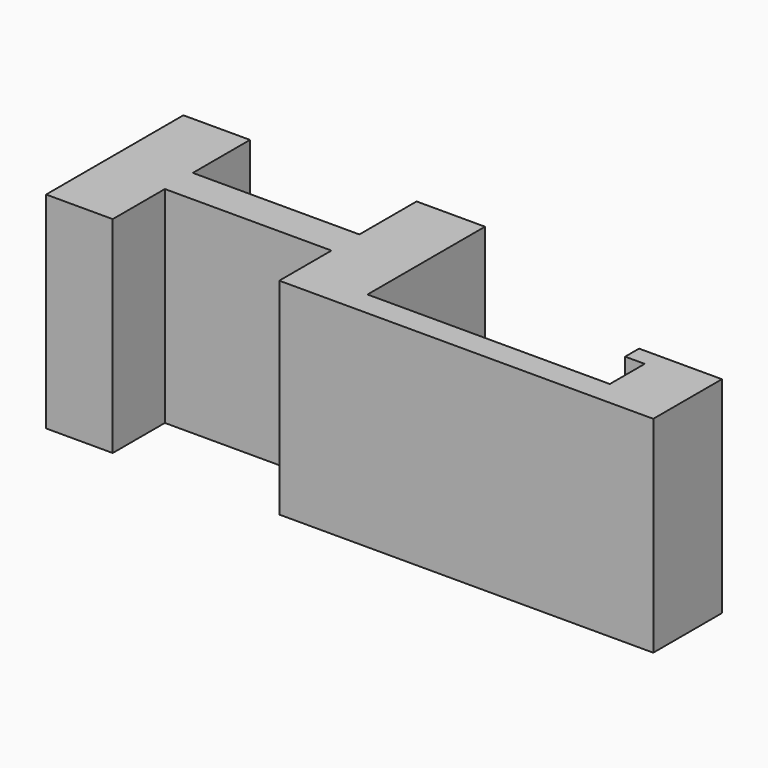
from build123d import *

# Parameters (mm, degrees)
F0_W     = 24.2680183989
F0_H     = 5.0877342001
F0_W_2   = 35.3016227051
F0_H_2   = 3.6045075208
F0_W_3   = 2.852525562
F0_H_3   = 2.53832
F1_DEPTH = 30


with BuildPart() as f1:
    # F0 (on Top) → F1 (new body)
    with BuildSketch(Plane.XY):
        Polygon((-18.6677063226, -10.4143796489), (-18.6677063226, 0), (-28.3749136821, 0), (-28.3749136821, -25), (-18.6677063226, -25), (-18.6677063226, -15.5021138489), align=None)
        with Locations((-6.5336971231, -12.9582467489)):
            Rectangle(F0_W, F0_H)
        Polygon((5.6003120763, 0), (5.6003120763, -10.4143796489), (5.6003120763, -15.5021138489), (5.6003120763, -25), (15.563129677, -25), (15.563129677, -21.3954924792), (15.563129677, 0), align=None)
        with Locations((33.2139410295, -23.1977462396)):
            Rectangle(F0_W_2, F0_H_2)
        Polygon((50.864752382, -21.3954924792), (50.864752382, -25), (60.0811056793, -25), (60.0811056793, -12.5), (50.864752382, -12.5), (50.864752382, -15.03832), align=None)
        with Locations((49.438489601, -13.76916)):
            Rectangle(F0_W_3, F0_H_3)
    extrude(amount=F1_DEPTH)


solid = f1.part
